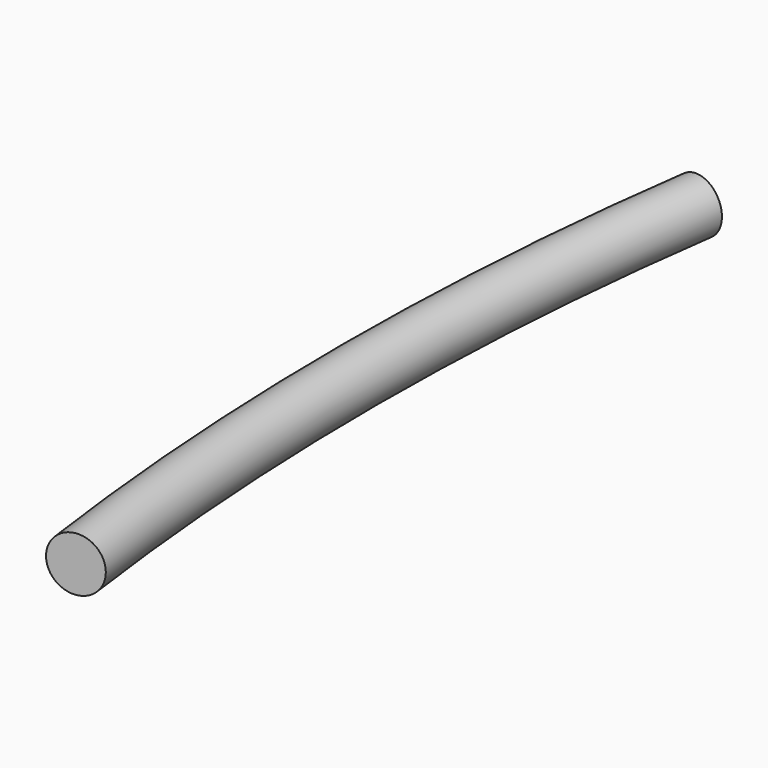
from build123d import *

# Parameters (mm, degrees)
F0_R          = 20
F2_ANGLE_BACK = 8
F2_ANGLE      = 16


with BuildPart() as f2:
    # F0 (on Front) → F2 (revolve)
    with BuildSketch(Plane.XZ, mode=Mode.PRIVATE) as f2_sk:
        Circle(F0_R)
    revolve(f2_sk.sketch.rotate(Axis((2058.5443973541, 0, -155.6328684092), (0, 0, -1)), -F2_ANGLE_BACK), axis=Axis((2058.5443973541, 0, -155.6328684092), (0, 0, -1)), revolution_arc=F2_ANGLE)


solid = f2.part
